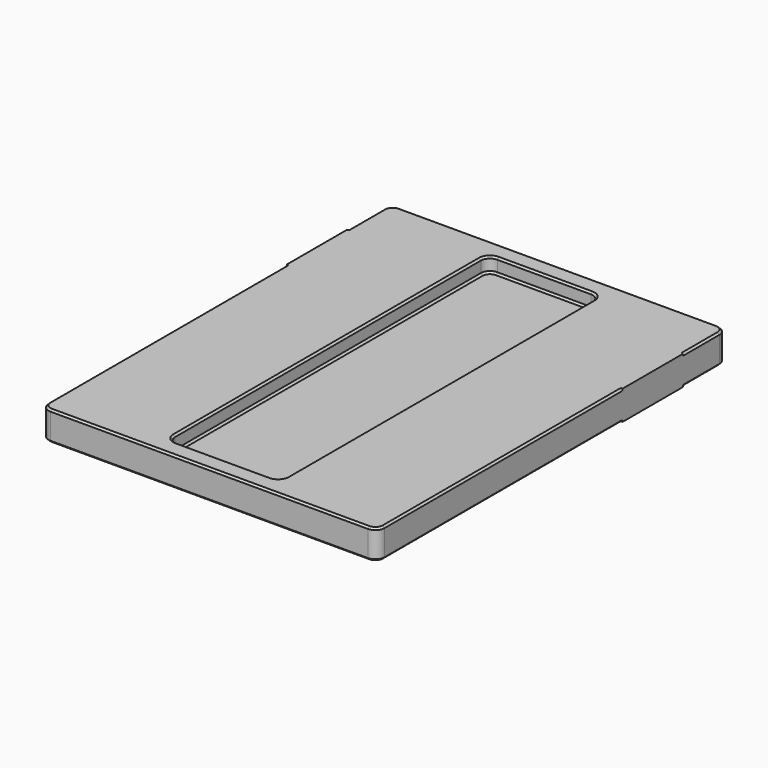
from build123d import *

# Parameters (mm, degrees)
F1_DEPTH = 40
F2_SIZE  = 2.5
F3_W     = 102.5
F3_H     = 35
F3_H_2   = 2.5
F4_DEPTH = 459
F6_DEPTH = 20
F7_SIZE  = 2.5
F8_R     = 1.75


with BuildPart() as f1:
    # F0 (on Top) → F1 (new body)
    with BuildSketch(Plane.XY):
        with BuildLine():
            Line((-446.5, 0), (-12.5, 0))
            ThreePointArc((-12.5, 0), (-3.6611652352, 3.6611652352), (0, 12.5))
            Line((0, 12.5), (0, 584.5))
            ThreePointArc((0, 584.5), (-3.6611652352, 593.3388347648), (-12.5, 597))
            Line((-12.5, 597), (-446.5, 597))
            ThreePointArc((-446.5, 597), (-455.3388347648, 593.3388347648), (-459, 584.5))
            Line((-459, 584.5), (-459, 12.5))
            ThreePointArc((-459, 12.5), (-455.3388347648, 3.6611652352), (-446.5, 0))
        make_face()
    extrude(amount=F1_DEPTH)

    # F2
    f2_edges = [f1.edges().sort_by_distance(p)[0] for p in [
        (-229.5, 0, 40),
        (-3.661165, 3.661165, 40),
        (0, 298.5, 40),
        (-3.661165, 593.338835, 40),
        (-229.5, 597, 40),
        (-455.338835, 593.338835, 40),
        (-459, 298.5, 40),
        (-455.338835, 3.661165, 40),
        (-229.5, 0, 0),
        (-3.661165, 3.661165, 0),
        (0, 298.5, 0),
        (-3.661165, 593.338835, 0),
        (-229.5, 597, 0),
        (-455.338835, 593.338835, 0),
        (-459, 298.5, 0),
        (-455.338835, 3.661165, 0),
    ]]
    chamfer(f2_edges, length=F2_SIZE)

    # F3 (on face) → F4 (join)
    with BuildSketch(Plane(origin=(-459, 0, 0), x_dir=(0, -1, 0), z_dir=(-1, 0, 0))):
        with Locations((-470.75, 20)):
            Rectangle(F3_W, F3_H)
        with Locations((-470.75, 38.75)):
            Rectangle(F3_W, F3_H_2)
        with Locations((-470.75, 1.25)):
            Rectangle(F3_W, F3_H_2)
    extrude(amount=-F4_DEPTH)

    # F5 (on face) → F6 (cut)
    with BuildSketch(Plane.XY.offset(40)):
        with BuildLine():
            Line((-165.5, 572), (-293.5, 572))
            ThreePointArc((-293.5, 572), (-302.3388347648, 568.3388347648), (-306, 559.5))
            Line((-306, 559.5), (-306, 37.5))
            ThreePointArc((-306, 37.5), (-302.3388347648, 28.6611652352), (-293.5, 25))
            Line((-293.5, 25), (-165.5, 25))
            ThreePointArc((-165.5, 25), (-156.6611652352, 28.6611652352), (-153, 37.5))
            Line((-153, 37.5), (-153, 559.5))
            ThreePointArc((-153, 559.5), (-156.6611652352, 568.3388347648), (-165.5, 572))
        make_face()
    extrude(amount=-F6_DEPTH, mode=Mode.SUBTRACT)

    # F7
    f7_edges = [f1.edges().sort_by_distance(p)[0] for p in [
        (-306, 298.5, 40),
        (-229.5, 572, 20),
    ]]
    chamfer(f7_edges, length=F7_SIZE)

    # F8
    f8_edges = [f1.edges().sort_by_distance(p)[0] for p in [
        (-1.25, 419.5, 38.75),
        (-1.25, 522, 38.75),
        (-1.25, 419.5, 1.25),
        (-1.25, 522, 1.25),
        (-457.75, 522, 38.75),
        (-457.75, 419.5, 38.75),
        (-457.75, 522, 1.25),
        (-457.75, 419.5, 1.25),
    ]]
    fillet(f8_edges, radius=F8_R)


solid = f1.part
